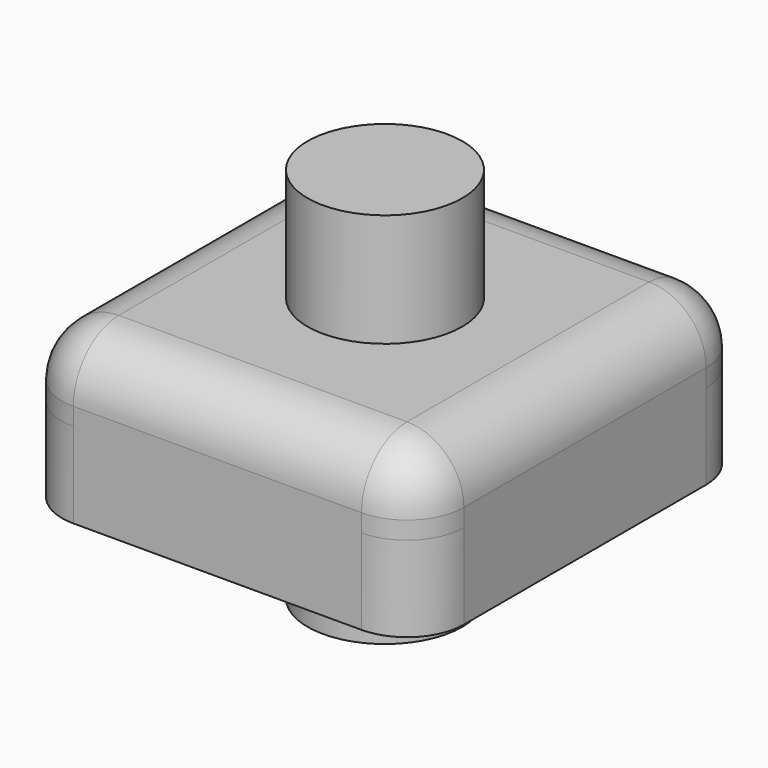
from build123d import *

# Parameters (mm, degrees)
F0_W       = 107.6569259167
F0_H       = 111.564617604
F1_DEPTH   = 20
F2_R       = 15.24
F3_R       = 20.4939327941
F1_FACE1_W = 77.1769259167
F1_FACE1_H = 81.084617604
F4_DEPTH   = 22.86
F5_R       = 20.7150462915
F6_DEPTH   = 101.092


with BuildPart() as f1:
    # F0 (on Top) → F1 (new body)
    with BuildSketch(Plane.XY):
        with Locations((0.9769238532, -0.4884619266)):
            Rectangle(F0_W, F0_H)
    extrude(amount=F1_DEPTH)

    # F2
    f2_edges = [f1.edges().sort_by_distance(p)[0] for p in [
        (54.805387, 55.293847, 10),
        (54.805387, -56.270771, 10),
        (-52.851539, -56.270771, 10),
        (-52.851539, 55.293847, 10),
        (0.976924, 55.293847, 20),
        (-52.851539, -0.488462, 20),
        (0.976924, -56.270771, 20),
        (54.805387, -0.488462, 20),
    ]]
    fillet(f2_edges, radius=F2_R)

    # F3 (on Top) + F1_face (on face) + F1_face1 (on face) → F4 (join)
    with BuildSketch(Plane.XY):
        with Locations((7.2969216853, 0)):
            Circle(F3_R)
    with BuildSketch(Plane(origin=(0.9769238532, -0.4884619266, 0), x_dir=(1, 0, 0), z_dir=(0, 0, -1))):
        with BuildLine():
            Line((-38.5884629583, -55.782308802), (38.5884629583, -55.782308802))
            ThreePointArc((38.5884629583, -55.782308802), (49.3647703036, -51.3186161473), (53.8284629583, -40.542308802))
            Line((53.8284629583, -40.542308802), (53.8284629583, 40.542308802))
            ThreePointArc((53.8284629583, 40.542308802), (49.3647703036, 51.3186161473), (38.5884629583, 55.782308802))
            Line((38.5884629583, 55.782308802), (-38.5884629583, 55.782308802))
            ThreePointArc((-38.5884629583, 55.782308802), (-49.3647703036, 51.3186161473), (-53.8284629583, 40.542308802))
            Line((-53.8284629583, 40.542308802), (-53.8284629583, -40.542308802))
            ThreePointArc((-53.8284629583, -40.542308802), (-49.3647703036, -51.3186161473), (-38.5884629583, -55.782308802))
        make_face()
    with BuildSketch(Plane(origin=(0.9769238532, -0.4884619266, 20), x_dir=(1, 0, 0), z_dir=(0, 0, 1))):
        Rectangle(F1_FACE1_W, F1_FACE1_H)
    extrude(amount=-F4_DEPTH, dir=(0, 0, 1))


with BuildPart() as f6:
    # F5 (on Top) → F6 (new body)
    with BuildSketch(Plane.XY):
        with Locations((-106.4832881093, 52.1724410355)):
            Circle(F5_R)
    extrude(amount=-F6_DEPTH)


with BuildPart() as f6_1:
    # F7: moved
    add(f6.part.moved(Location((107.442, -52.324, 50.292))))


solid = Compound([f1.part, f6_1.part])
